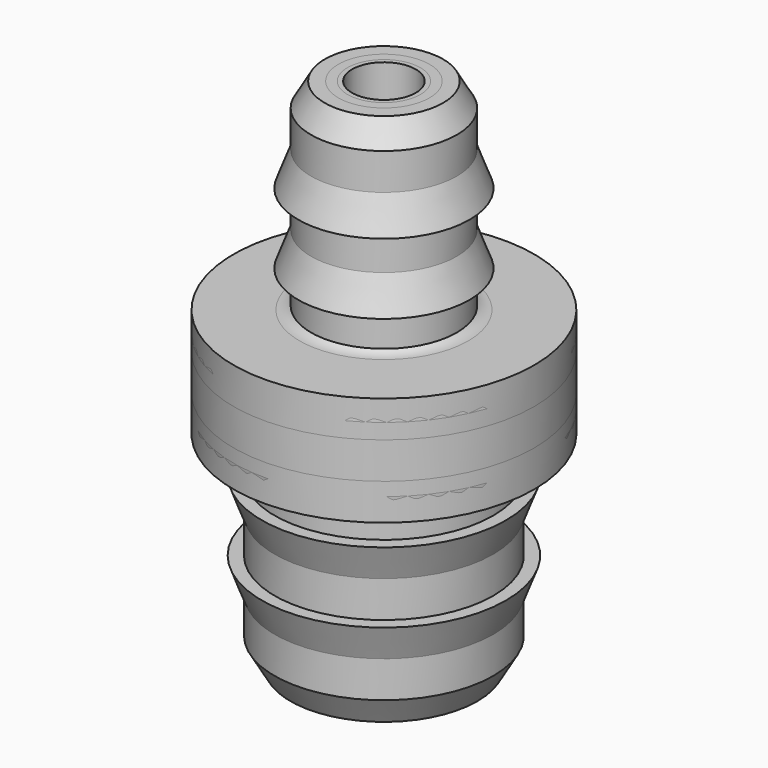
from build123d import *


with BuildPart() as f_3mm_to_5mm_barbed_connector:
    # Sketch → Revolution (revolve)
    with BuildSketch(Plane.XZ):
        Polygon((1.75, 0), (2.066987, 0), (2.5, 0.75), (2.5, 1.75), (2.85, 2.68675), (2.5, 2.68675), (2.5, 3.68675), (2.85, 4.623499), (2.5, 4.623499), (2.5, 5.623499), (3.625, 5.623499), (3.625, 6.623499), (2.5, 6.623499), (2.5, 7.623499), (3.625, 7.623499), (3.625, 8.623499), (1.625, 8.623499), (1.625, 9.623499), (1.975, 9.623499), (1.625, 10.560249), (1.625, 11.560249), (1.975, 11.560249), (1.625, 12.496999), (1.625, 13.496999), (1.25, 14.146518), (0.875, 14.146518), (0.875, 6.623499), (1.75, 5.623499), align=None)
    revolve(axis=Axis((0, 0, 0), (0, 0, 1)))


with BuildPart() as f_3mm_to_5_25mm_barbed_connector:
    # Sketch003 → Revolution002 (revolve)
    with BuildSketch(Plane.XZ):
        Polygon((1.875, 0), (2.191987, 0), (2.625, 0.75), (2.625, 1.75), (2.975, 2.68675), (2.625, 2.68675), (2.625, 3.68675), (2.975, 4.623499), (2.625, 4.623499), (2.625, 5.623499), (3.75, 5.623499), (3.75, 6.623499), (2.625, 6.623499), (2.625, 7.623499), (3.75, 7.623499), (3.75, 8.623499), (1.625, 8.623499), (1.625, 9.623499), (1.975, 9.623499), (1.625, 10.560249), (1.625, 11.560249), (1.975, 11.560249), (1.625, 12.496999), (1.625, 13.496999), (1.25, 14.146518), (0.875, 14.146518), (0.875, 6.623499), (1.875, 5.623499), align=None)
    revolve(axis=Axis((0, 0, 0), (0, 0, 1)))


with BuildPart() as f_3mm_to_5_5mm_barbed_connector:
    # Sketch004 → Revolution003 (revolve)
    with BuildSketch(Plane.XZ):
        Polygon((2, 0), (2.316987, 0), (2.75, 0.75), (2.75, 1.75), (3.1, 2.68675), (2.75, 2.68675), (2.75, 3.68675), (3.1, 4.623499), (2.75, 4.623499), (2.75, 5.623499), (3.875, 5.623499), (3.875, 6.623499), (2.75, 6.623499), (2.75, 7.623499), (3.875, 7.623499), (3.875, 8.623499), (1.625, 8.623499), (1.625, 9.623499), (1.975, 9.623499), (1.625, 10.560249), (1.625, 11.560249), (1.975, 11.560249), (1.625, 12.496999), (1.625, 13.496999), (1.25, 14.146518), (0.875, 14.146518), (0.875, 6.623499), (2, 5.623499), align=None)
    revolve(axis=Axis((0, 0, 0), (0, 0, 1)))


with BuildPart() as f_3mm_to_6mm_barbed_connector:
    # Sketch005 → Revolution004 (revolve)
    with BuildSketch(Plane.XZ):
        Polygon((2.25, 0), (2.566987, 0), (3, 0.75), (3, 1.75), (3.35, 2.68675), (3, 2.68675), (3, 3.68675), (3.35, 4.623499), (3, 4.623499), (3, 5.623499), (4.125, 5.623499), (4.125, 6.623499), (3, 6.623499), (3, 7.623499), (4.125, 7.623499), (4.125, 8.623499), (1.625, 8.623499), (1.625, 9.623499), (1.975, 9.623499), (1.625, 10.560249), (1.625, 11.560249), (1.975, 11.560249), (1.625, 12.496999), (1.625, 13.496999), (1.25, 14.146518), (0.875, 14.146518), (0.875, 6.623499), (2.25, 5.623499), align=None)
    revolve(axis=Axis((0, 0, 0), (0, 0, 1)))


with BuildPart() as f_3_5mm_to_6mm_barbed_connector:
    # Sketch006 → Revolution005 (revolve)
    with BuildSketch(Plane.XZ):
        with BuildLine():
            Line((2.25, 0), (2.566987, 0))
            Line((2.566987, 0), (3, 0.75))
            Line((3, 0.75), (3, 1.75))
            Line((3, 1.75), (3.35, 2.68675))
            Line((3.35, 2.68675), (3, 2.68675))
            Line((3, 2.68675), (3, 3.68675))
            Line((3, 3.68675), (3.35, 4.623499))
            Line((3.35, 4.623499), (3, 4.623499))
            Line((3, 4.623499), (3, 5.211766))
            ThreePointArc((3.411733, 5.623499), (3.120594, 5.502906), (3, 5.211766))
            Line((3.411733, 5.623499), (3.495398, 5.623499))
            ThreePointArc((3.495398, 5.623499), (3.940594, 5.807906), (4.125, 6.253101))
            Line((4.125, 6.253101), (4.125, 8.044526))
            ThreePointArc((4.125, 8.044526), (3.955423, 8.453922), (3.546027, 8.623499))
            Line((3.546027, 8.623499), (2.316492, 8.623499))
            ThreePointArc((1.75, 9.189991), (1.915922, 8.789421), (2.316492, 8.623499))
            Line((1.75, 9.189991), (1.75, 9.623499))
            Line((1.75, 9.623499), (2.1, 9.623499))
            Line((2.1, 9.623499), (1.75, 10.560249))
            Line((1.75, 10.560249), (1.75, 11.560249))
            Line((1.75, 11.560249), (2.1, 11.560249))
            Line((2.1, 11.560249), (1.75, 12.496999))
            Line((1.75, 12.496999), (1.75, 13.496999))
            Line((1.375, 14.146518), (1.75, 13.496999))
            Line((1.375, 14.146518), (1, 14.146518))
            Line((1, 6.623499), (1, 14.146518))
            Line((2.25, 5.623499), (1, 6.623499))
            Line((2.25, 5.623499), (2.25, 0))
        make_face()
    revolve(axis=Axis((0, 0, 0), (0, 0, 1)))


with BuildPart() as f_4mm_to_6mm_barbed_connector:
    # Sketch007 → Revolution006 (revolve)
    with BuildSketch(Plane.XZ):
        Polygon((2.25, 0), (2.566987, 0), (3, 0.75), (3, 1.75), (3.35, 2.68675), (3, 2.68675), (3, 3.68675), (3.35, 4.623499), (3, 4.623499), (3, 5.623499), (4.125, 5.623499), (4.125, 6.623499), (3, 6.623499), (3, 7.623499), (4.125, 7.623499), (4.125, 8.623499), (2, 8.623499), (2, 9.623499), (2.35, 9.623499), (2, 10.560249), (2, 11.560249), (2.35, 11.560249), (2, 12.496999), (2, 13.496999), (1.625, 14.146518), (1.25, 14.146518), (1.25, 6.623499), (2.25, 5.623499), align=None)
    revolve(axis=Axis((0, 0, 0), (0, 0, 1)))


solid = Compound([f_3mm_to_5mm_barbed_connector.part, f_3mm_to_5_25mm_barbed_connector.part, f_3mm_to_5_5mm_barbed_connector.part, f_3mm_to_6mm_barbed_connector.part, f_3_5mm_to_6mm_barbed_connector.part, f_4mm_to_6mm_barbed_connector.part])
